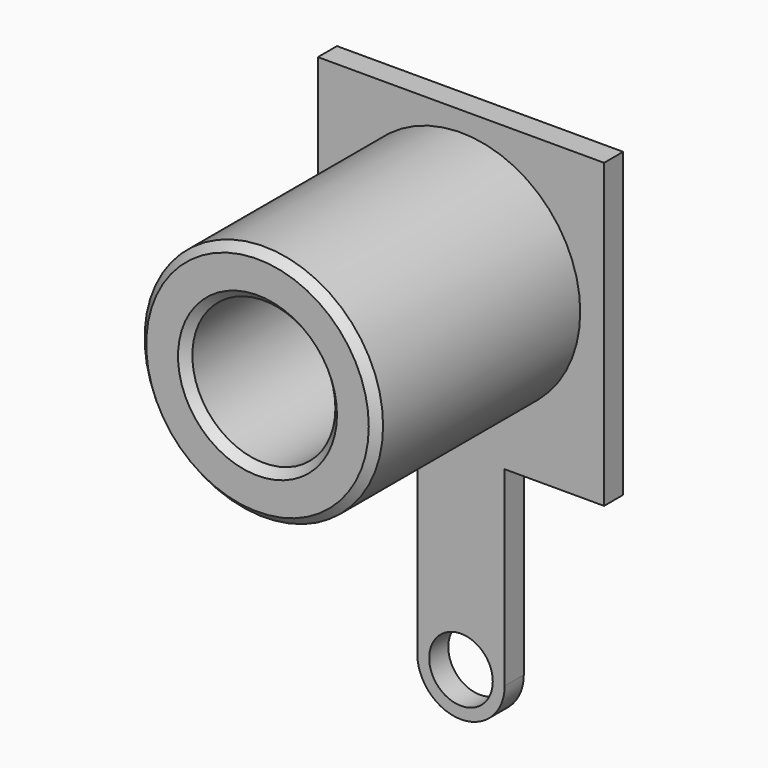
from build123d import *

# Parameters (mm, degrees)
SKETCH073_R     = 0.8
PAD041_DEPTH    = 0.6
SKETCH072_R     = 3
PAD042_DEPTH    = 6.4
SKETCH077_R     = 1.8
POCKET014_DEPTH = 9
CHAMFER004_SIZE = 0.2


with BuildPart() as part:
    # Sketch073 → Pad041 (new body)
    with BuildSketch(Plane.XZ):
        with BuildLine():
            Line((7.2, 7.6), (0, 7.6))
            Line((0, 7.6), (0, 0))
            Line((0, 0), (2.5, 0))
            Line((2.5, 0), (2.5, -4.8))
            ThreePointArc((2.5, -4.8), (3.6, -5.9), (4.7, -4.8))
            Line((4.7, -4.8), (4.7, 0))
            Line((4.7, 0), (7.2, 0))
            Line((7.2, 0), (7.2, 7.6))
        make_face()
        with Locations((3.6, -4.8)):
            Circle(SKETCH073_R, mode=Mode.SUBTRACT)
    extrude(amount=PAD041_DEPTH)

    # Sketch072 (on Face11 of Pad041) → Pad042 (join)
    with BuildSketch(Plane.XZ.offset(0.6)):
        with Locations((3.6, 4.1)):
            Circle(SKETCH072_R)
    extrude(amount=PAD042_DEPTH)

    # Sketch077 (on Face13 of Pad042) → Pocket014 (cut)
    with BuildSketch(Plane.XZ.offset(7)):
        with Locations((3.6, 4.1)):
            Circle(SKETCH077_R)
    extrude(amount=-POCKET014_DEPTH, mode=Mode.SUBTRACT)

    # Chamfer004
    chamfer004_edges = [part.edges().sort_by_distance(p)[0] for p in [
        (0.6, -7, 4.1),
        (1.8, -7, 4.1),
    ]]
    chamfer(chamfer004_edges, length=CHAMFER004_SIZE)


with BuildPart() as part_1:
    # Body009 placement: moved
    add(part.part.moved(Location((1.4, 2.6, 1.4))))


solid = part_1.part
